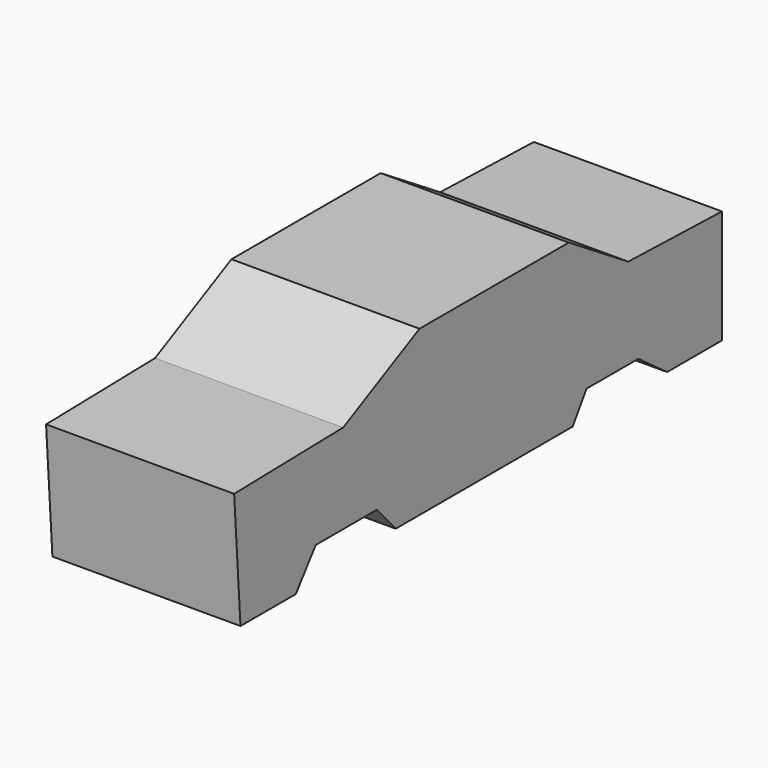
from build123d import *

# Parameters (mm, degrees)
F1_DEPTH = 76.2


with BuildPart() as f1:
    # F0 (on Right) → F1 (new body)
    with BuildSketch(Plane.YZ):
        Polygon((-93.878396, 40.8432), (-90.677999, -7.62), (-62.636398, -7.62), (-52.577998, 5.7912), (-21.4884, 5.7912), (-12.0396, -4.8768), (77.571601, -4.8768), (84.582001, 5.7912), (110.794805, 5.7912), (125.425205, -4.8768), (153.162003, -4.8768), (153.162003, 41.148003), (105.708321, 42.520983), (68.884805, 43.586399), (32.613605, 43.586399), (-38.662857, 42.040645), align=None)
        Polygon((0, 61.569601), (-38.662857, 42.040645), (32.613605, 43.586399), (68.884805, 43.586399), (105.708321, 42.520983), (75.590402, 61.569601), align=None)
    extrude(amount=F1_DEPTH)


solid = f1.part
